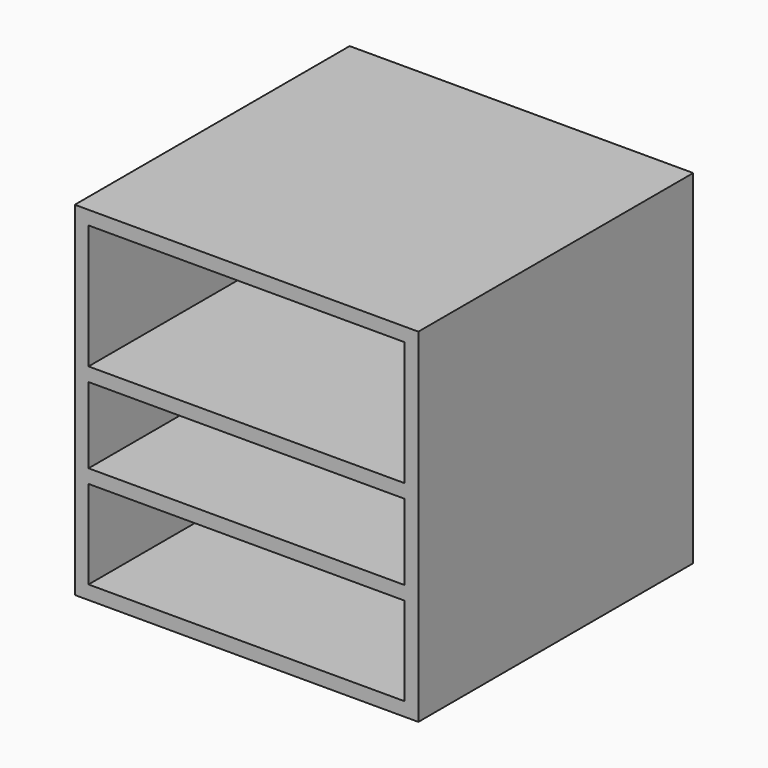
from build123d import *

# Parameters (mm, degrees)
F0_W     = 300
F0_H     = 300
F1_DEPTH = 150
F2_T     = -12
F3_W     = 276
F3_H     = 12
F4_DEPTH = 288
F5_W     = 276
F5_H     = 12
F6_DEPTH = 288


with BuildPart() as f1:
    # F0 (on Front) → F1 (new body, symmetric)
    with BuildSketch(Plane.XZ):
        Rectangle(F0_W, F0_H)
    extrude(amount=F1_DEPTH, both=True)

    # F2
    f2_openings = [f1.faces().sort_by_distance(p)[0] for p in [
        (0, -150, 0),
    ]]
    offset(amount=F2_T, openings=f2_openings)

    # F3 (on face) → F4 (join)
    with BuildSketch(Plane.XZ.offset(150)):
        with Locations((0, 23.6249938158)):
            Rectangle(F3_W, F3_H)
    extrude(amount=-F4_DEPTH)

    # F5 (on face) → F6 (join)
    with BuildSketch(Plane.XZ.offset(150)):
        with Locations((0, -54.6922665407)):
            Rectangle(F5_W, F5_H)
    extrude(amount=-F6_DEPTH)


solid = f1.part
